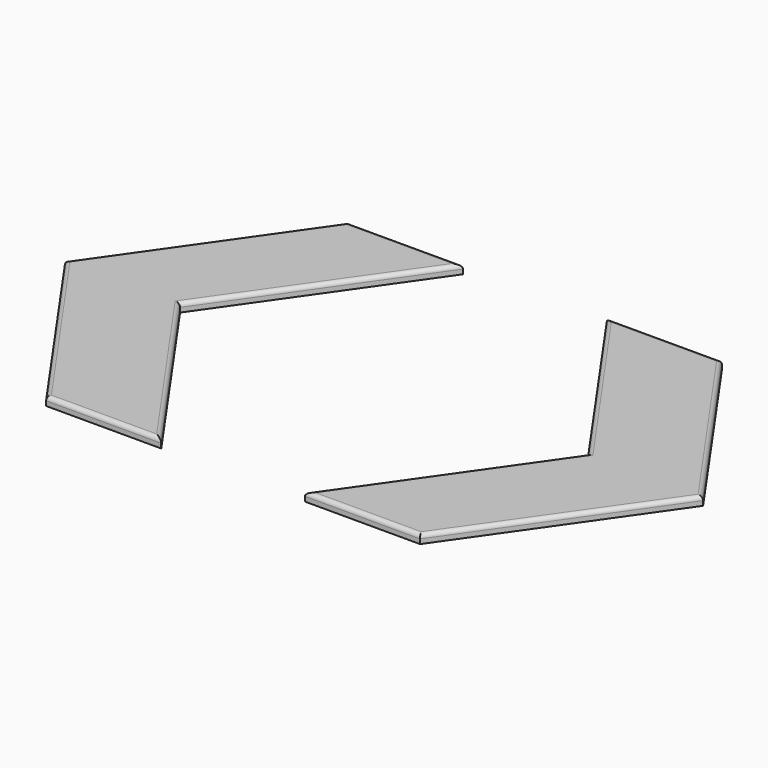
from build123d import *

# Parameters (mm, degrees)
F1_DEPTH = 1.5
F2_R     = 0.7


with BuildPart() as f1:
    # F0 (on Top) → F1 (new body)
    with BuildSketch(Plane.XY):
        Polygon((-32.471634, 32.766082), (-55.414691, 0), (-32.471634, -32.766082), (-12.471634, -32.766082), (-35.414691, 0), (-12.471634, 32.766082), align=None)
        Polygon((32.471634, 32.766082), (12.471634, 32.766082), (35.414691, 0), (12.471634, -32.766082), (32.471634, -32.766082), (55.414691, 0), align=None)
    extrude(amount=F1_DEPTH)

    # F2
    f2_edges = [f1.edges().sort_by_distance(p)[0] for p in [
        (-22.471634, 32.766082, 1.5),
        (-43.943162, 16.383041, 1.5),
        (-43.943162, -16.383041, 1.5),
        (-22.471634, -32.766082, 1.5),
        (-23.943162, -16.383041, 1.5),
        (-23.943162, 16.383041, 1.5),
        (22.471634, -32.766082, 1.5),
        (43.943162, -16.383041, 1.5),
        (43.943162, 16.383041, 1.5),
        (22.471634, 32.766082, 1.5),
        (23.943162, 16.383041, 1.5),
        (23.943162, -16.383041, 1.5),
    ]]
    fillet(f2_edges, radius=F2_R)


solid = f1.part
